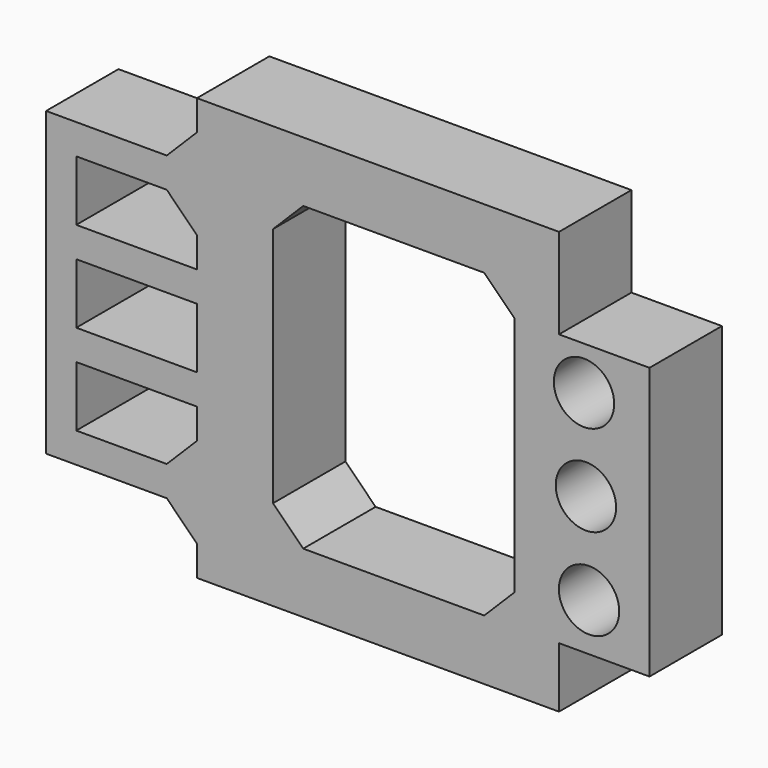
from build123d import *

# Parameters (mm, degrees)
F0_R     = 10
F0_W     = 40
F0_H     = 20
F1_DEPTH = 30


with BuildPart() as f1:
    # F0 (on Front) → F1 (new body)
    with BuildSketch(Plane.XZ):
        Polygon((63.012897, 82.400964), (-36.987103, 82.400964), (-46.987103, 82.400964), (-46.987103, 72.400964), (-56.987103, 62.400964), (-86.987103, 62.400964), (-96.987103, 62.400964), (-96.987103, 52.400964), (-96.987103, -27.599036), (-96.987103, -37.599036), (-86.987103, -37.599036), (-56.987103, -37.599036), (-46.987103, -47.599036), (-46.987103, -57.599036), (-36.987103, -57.599036), (63.012897, -57.599036), (73.012897, -57.599036), (73.012897, -47.599036), (73.012897, -37.599036), (83.012897, -37.599036), (93.012897, -37.599036), (103.012897, -37.599036), (103.012897, -27.599036), (103.012897, 42.490403), (103.012897, 52.490403), (93.012897, 52.490403), (83.012897, 52.490403), (73.012897, 52.490403), (73.012897, 62.490403), (73.012897, 72.400964), (73.012897, 82.400964), align=None)
        Polygon((-56.987103, -27.608875), (-86.987103, -27.608875), (-86.987103, -7.608875), (-46.987103, -7.608875), (-46.987103, -17.608875), align=None, mode=Mode.SUBTRACT)
        with Locations((82.97311, -21.841004)):
            Circle(F0_R, mode=Mode.SUBTRACT)
        with Locations((81.939248, 8.141176)):
            Circle(F0_R, mode=Mode.SUBTRACT)
        with Locations((-66.987103, 12.400964)):
            Rectangle(F0_W, F0_H, mode=Mode.SUBTRACT)
        Polygon((-86.987103, 32.410803), (-86.987103, 52.410803), (-56.987103, 52.410803), (-46.987103, 42.410803), (-46.987103, 32.410803), align=None, mode=Mode.SUBTRACT)
        Polygon((-21.763869, 52.400964), (-11.763869, 62.400964), (48.236131, 62.400964), (58.236131, 52.400964), (58.236131, 37.400964), (58.236131, 12.400964), (58.236131, -27.599036), (48.236131, -37.599036), (-11.763869, -37.599036), (-21.763869, -27.599036), (-21.763869, 12.400964), (-21.763869, 37.400964), align=None, mode=Mode.SUBTRACT)
        with Locations((81.301088, 38.134388)):
            Circle(F0_R, mode=Mode.SUBTRACT)
    extrude(amount=F1_DEPTH)


solid = f1.part
